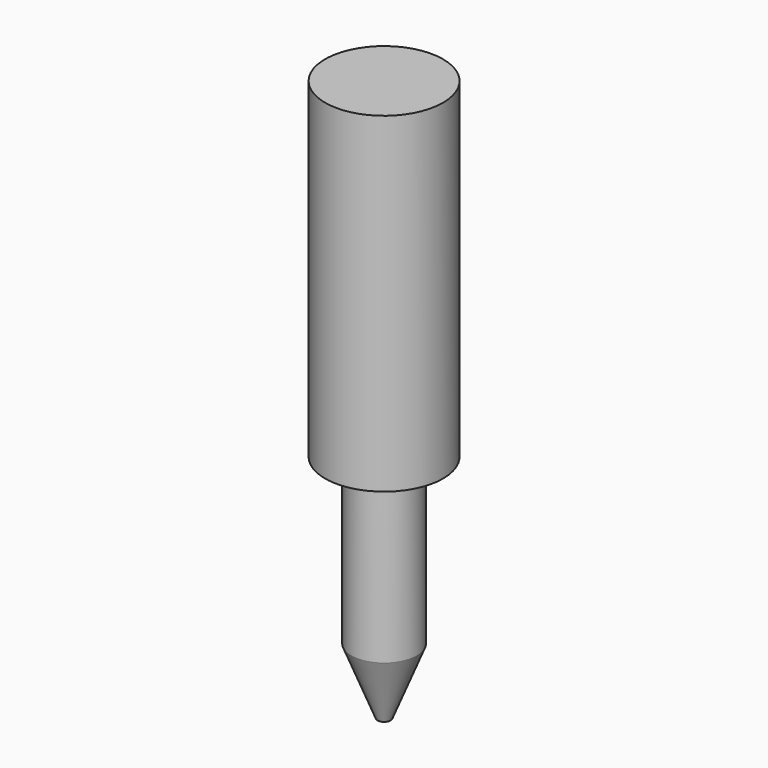
from build123d import *

# Parameters (mm, degrees)
CYLINDER005_R     = 0.5
CYLINDER005_DEPTH = 2.51
CYLINDER006_R     = 0.9
CYLINDER006_DEPTH = 5.05


with BuildPart() as cylinder005:
    # Cylinder005 → Cylinder005 (new body)
    with BuildSketch(Plane(origin=(2.54, 0, -2.51), x_dir=(1, 0, 0), z_dir=(0, 0, 1))):
        Circle(CYLINDER005_R)
    extrude(amount=CYLINDER005_DEPTH)


with BuildPart() as cone002:
    # Cone002 → Cone002 (revolve)
    with BuildSketch(Plane(origin=(2.54, 0, -3.51), x_dir=(1, 0, 0), z_dir=(0, -1, 0))):
        Polygon((0, 0), (0.1, 0), (0.5, 1), (0, 1), align=None)
    revolve(axis=Axis((2.54, 0, -3.51), (0, 0, 1)))


with BuildPart() as fusion002:
    # Cylinder006 → Cylinder006 (new body)
    with BuildSketch(Plane(origin=(2.54, 0, 0), x_dir=(1, 0, 0), z_dir=(0, 0, 1))):
        Circle(CYLINDER006_R)
    extrude(amount=CYLINDER006_DEPTH)

    # Fusion002: union Cylinder005, Cone002
    add(cylinder005.part)
    add(cone002.part)


with BuildPart() as fusion002_1:
    # Fusion002 placement: moved
    add(fusion002.part.moved(Location((0, 31.75, 0))))


solid = fusion002_1.part
